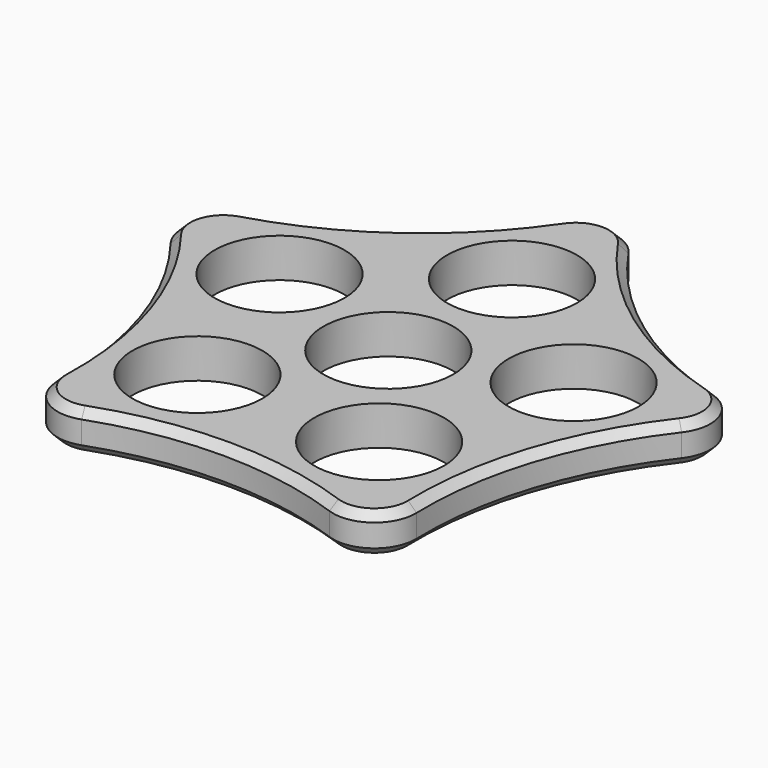
from build123d import *

# Parameters (mm, degrees)
F0_R     = 8.001
F1_DEPTH = 4.826
F2_R     = 5.08
F3_SIZE  = 1.016


with BuildPart() as f1:
    # F0 (on Top) → F1 (new body)
    with BuildSketch(Plane.XY):
        with BuildLine():
            ThreePointArc((-37.4430950465, 12.1659990685), (-24.2528913362, -7.8802420857), (-23.1411053828, -31.8509990685))
            ThreePointArc((-23.1411053828, -31.8509990685), (0, -25.5009990685), (23.1411053828, -31.8509990685))
            ThreePointArc((23.1411053828, -31.8509990685), (24.2528913362, -7.8802420857), (37.4430950465, 12.1659990685))
            ThreePointArc((37.4430950465, 12.1659990685), (14.9891111712, 20.63074162), (0, 39.37))
            ThreePointArc((0, 39.37), (-14.9891111712, 20.63074162), (-37.4430950465, 12.1659990685))
        make_face()
        with Locations((-11.1973090562, -15.4117737428)):
            Circle(F0_R, mode=Mode.SUBTRACT)
        with Locations((11.1973090562, -15.4117737428)):
            Circle(F0_R, mode=Mode.SUBTRACT)
        Circle(F0_R, mode=Mode.SUBTRACT)
        with Locations((-18.1176266354, 5.8867737428)):
            Circle(F0_R, mode=Mode.SUBTRACT)
        with Locations((18.1176266354, 5.8867737428)):
            Circle(F0_R, mode=Mode.SUBTRACT)
        with Locations((0, 19.05)):
            Circle(F0_R, mode=Mode.SUBTRACT)
    extrude(amount=F1_DEPTH)

    # F2
    f2_edges = [f1.edges().sort_by_distance(p)[0] for p in [
        (0, 39.37, 2.413),
        (37.443095, 12.165999, 2.413),
        (23.141105, -31.850999, 2.413),
        (-23.141105, -31.850999, 2.413),
        (-37.443095, 12.165999, 2.413),
    ]]
    fillet(f2_edges, radius=F2_R)

    # F3
    f3_edges = [f1.edges().sort_by_distance(p)[0] for p in [
        (-32.297907, 10.494226, 0),
        (-24.252891, -7.880242, 4.826),
    ]]
    chamfer(f3_edges, length=F3_SIZE)


solid = f1.part
